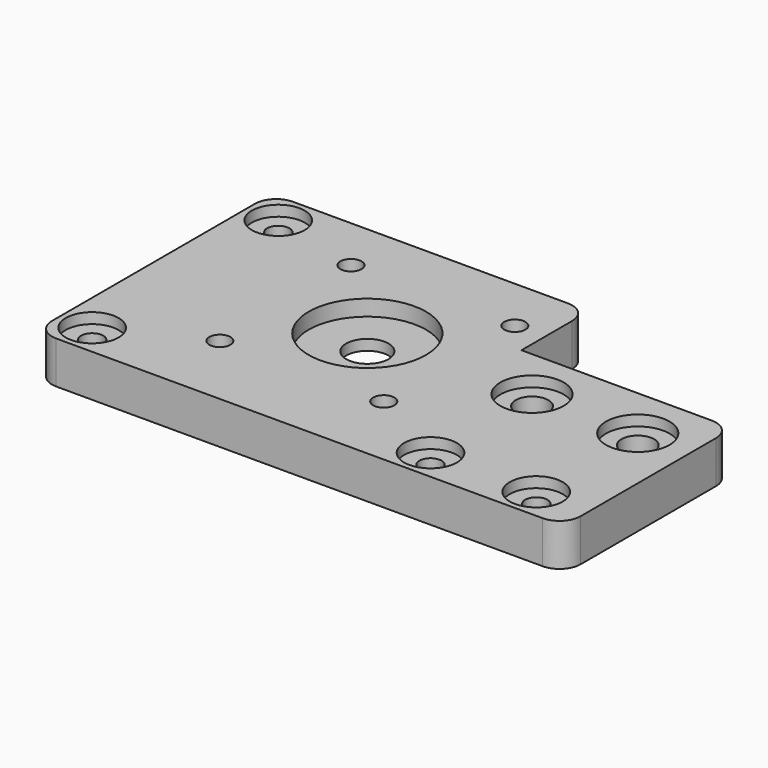
from build123d import *

# Parameters (mm, degrees)
SKETCH_R        = 3.1
SKETCH_R_2      = 4
SKETCH_R_3      = 2
SKETCH_R_4      = 2.1
PAD_DEPTH       = 8
SKETCH001_R     = 11.1
POCKET_DEPTH    = 3
SKETCH002_R     = 5
SKETCH002_R_2   = 6
POCKET001_DEPTH = 2
SKETCH003_R     = 11.1
POCKET002_DEPTH = 3
FILLET_R        = 4
FILLET001_R     = 4
FILLET002_R     = 4
FILLET003_R     = 4
FILLET004_R     = 4


with BuildPart() as part:
    # Sketch → Pad (new body)
    with BuildSketch(Plane.XY):
        Polygon((0, 0), (0, 56), (60, 56), (60, 40), (100, 40), (100, 0), align=None)
        with Locations((90, 30)):
            Circle(SKETCH_R, mode=Mode.SUBTRACT)
        with Locations((70, 30)):
            Circle(SKETCH_R, mode=Mode.SUBTRACT)
        with Locations((38.85, 30)):
            Circle(SKETCH_R_2, mode=Mode.SUBTRACT)
        with Locations((23.35, 45.5)):
            Circle(SKETCH_R_3, mode=Mode.SUBTRACT)
        with Locations((23.35, 14.5)):
            Circle(SKETCH_R_3, mode=Mode.SUBTRACT)
        with Locations((54.35, 14.5)):
            Circle(SKETCH_R_3, mode=Mode.SUBTRACT)
        with Locations((54.35, 45.5)):
            Circle(SKETCH_R_3, mode=Mode.SUBTRACT)
        with Locations((6, 6)):
            Circle(SKETCH_R_4, mode=Mode.SUBTRACT)
        with Locations((6, 50)):
            Circle(SKETCH_R_4, mode=Mode.SUBTRACT)
        with Locations((90, 6)):
            Circle(SKETCH_R_4, mode=Mode.SUBTRACT)
        with Locations((70, 6)):
            Circle(SKETCH_R_4, mode=Mode.SUBTRACT)
    extrude(amount=PAD_DEPTH)

    # Sketch001 → Pocket (cut)
    with BuildSketch(Plane.XY.offset(8)):
        with Locations((38.85, 30)):
            Circle(SKETCH001_R)
    extrude(amount=-POCKET_DEPTH, mode=Mode.SUBTRACT)

    # Sketch002 → Pocket001 (cut)
    with BuildSketch(Plane.XY.offset(8)):
        with Locations((6, 50)):
            Circle(SKETCH002_R)
        with Locations((6, 6)):
            Circle(SKETCH002_R)
        with Locations((70, 6)):
            Circle(SKETCH002_R)
        with Locations((90, 6)):
            Circle(SKETCH002_R)
        with Locations((70, 30)):
            Circle(SKETCH002_R_2)
        with Locations((90, 30)):
            Circle(SKETCH002_R_2)
    extrude(amount=-POCKET001_DEPTH, mode=Mode.SUBTRACT)

    # Sketch003 → Pocket002 (cut)
    with BuildSketch(Plane(origin=(0, 0, 0), x_dir=(1, 0, 0), z_dir=(0, 0, -1))):
        with Locations((38.85, -30)):
            Circle(SKETCH003_R)
    extrude(amount=-POCKET002_DEPTH, mode=Mode.SUBTRACT)

    # Fillet
    fillet_edges = [part.edges().sort_by_distance(p)[0] for p in [
        (0, 56, 4),
    ]]
    fillet(fillet_edges, radius=FILLET_R)

    # Fillet001
    fillet001_edges = [part.edges().sort_by_distance(p)[0] for p in [
        (60, 56, 4),
    ]]
    fillet(fillet001_edges, radius=FILLET001_R)

    # Fillet002
    fillet002_edges = [part.edges().sort_by_distance(p)[0] for p in [
        (100, 40, 4),
    ]]
    fillet(fillet002_edges, radius=FILLET002_R)

    # Fillet003
    fillet003_edges = [part.edges().sort_by_distance(p)[0] for p in [
        (100, 0, 4),
    ]]
    fillet(fillet003_edges, radius=FILLET003_R)

    # Fillet004
    fillet004_edges = [part.edges().sort_by_distance(p)[0] for p in [
        (0, 0, 4),
    ]]
    fillet(fillet004_edges, radius=FILLET004_R)


solid = part.part
